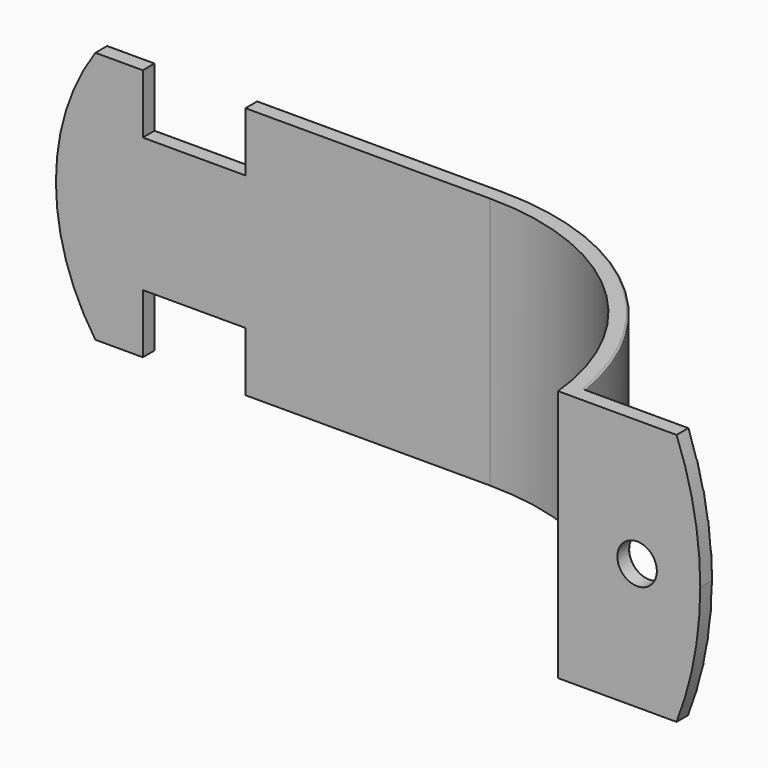
from build123d import *

# Parameters (mm, degrees)
F1_DEPTH = 16
F3_DEPTH = 12.5
F5_DEPTH = 12.5
F6_W     = 13
F6_H     = 7.5
F7_DEPTH = 12.5
F8_R     = 2.5
F9_DEPTH = 12.5
F10_R    = 0.2


with BuildPart() as f1:
    # F0 (on Top) → F1 (new body, symmetric)
    with BuildSketch(Plane.XY):
        with BuildLine():
            Line((-27.5, -1), (27.5, -1))
            ThreePointArc((27.5, -1), (48.3865985742, -9.0362658643), (58.5, -29))
            Line((58.5, -29), (76.5, -29))
            Line((76.5, -29), (76.5, -27))
            Line((76.5, -27), (60.2566787083, -27))
            ThreePointArc((60.2566787083, -27), (49.0464614264, -6.9539102055), (27.5, 1))
            Line((27.5, 1), (-27.5, 1))
            Line((-27.5, 1), (-27.5, -1))
        make_face()
    extrude(amount=F1_DEPTH, both=True)

    # F2 (on face) → F3 (cut, symmetric)
    with BuildSketch(Plane.XZ.offset(29)):
        with BuildLine():
            Line((76.5, 0), (76.5, 16))
            Line((76.5, 16), (73.5, 16))
            ThreePointArc((73.5, 16), (75.7435215896, 8.139410298), (76.5, 0))
        make_face()
        with BuildLine():
            Line((76.5, -16), (76.5, 0))
            ThreePointArc((76.5, 0), (75.7435215896, -8.139410298), (73.5, -16))
            Line((73.5, -16), (76.5, -16))
        make_face()
    extrude(amount=F3_DEPTH, both=True, mode=Mode.SUBTRACT)

    # F4 (on face) → F5 (cut, symmetric)
    with BuildSketch(Plane(origin=(0, 1, 0), x_dir=(-1, 0, 0), z_dir=(0, 1, 0))):
        with BuildLine():
            Line((27.5, -16), (27.5, -3.42e-08))
            ThreePointArc((27.5, -3.42e-08), (26.2208873777, -8.3815273234), (22.5, -16))
            Line((22.5, -16), (27.5, -16))
        make_face()
        with BuildLine():
            Line((27.5, -3.42e-08), (27.5, 16))
            Line((27.5, 16), (22.5, 16))
            ThreePointArc((22.5, 16), (26.2208873879, 8.3815272908), (27.5, -3.42e-08))
        make_face()
    extrude(amount=F5_DEPTH, both=True, mode=Mode.SUBTRACT)

    # F6 (on face) → F7 (cut, symmetric)
    with BuildSketch(Plane(origin=(0, 1, 0), x_dir=(-1, 0, 0), z_dir=(0, 1, 0))):
        with Locations((10, -12.25)):
            Rectangle(F6_W, F6_H)
        with Locations((10, 12.25)):
            Rectangle(F6_W, F6_H)
    extrude(amount=F7_DEPTH, both=True, mode=Mode.SUBTRACT)

    # F8 (on face) → F9 (cut, symmetric)
    with BuildSketch(Plane(origin=(0, -27, 0), x_dir=(-1, 0, 0), z_dir=(0, 1, 0))):
        with Locations((-68.5, 0)):
            Circle(F8_R)
    extrude(amount=F9_DEPTH, both=True, mode=Mode.SUBTRACT)

    # F10
    f10_edges = [f1.edges().sort_by_distance(p)[0] for p in [
        (76.5, -27, 0),
        (66.878339, -27, 16),
        (66.878339, -27, -16),
        (60.256679, -27, 0),
        (71, -27, 0),
        (49.046461, -6.95391, -16),
        (27.5, 1, 0),
        (49.046461, -6.95391, 16),
        (12, 1, 16),
        (-3.5, 1, 12.25),
        (-10, 1, 8.5),
        (-16.5, 1, 12.25),
        (-19.5, 1, 16),
        (-27.5, 1, 0),
        (-19.5, 1, -16),
        (-16.5, 1, -12.25),
        (-10, 1, -8.5),
        (-3.5, 1, -12.25),
        (12, 1, -16),
    ]]
    fillet(f10_edges, radius=F10_R)


solid = f1.part
